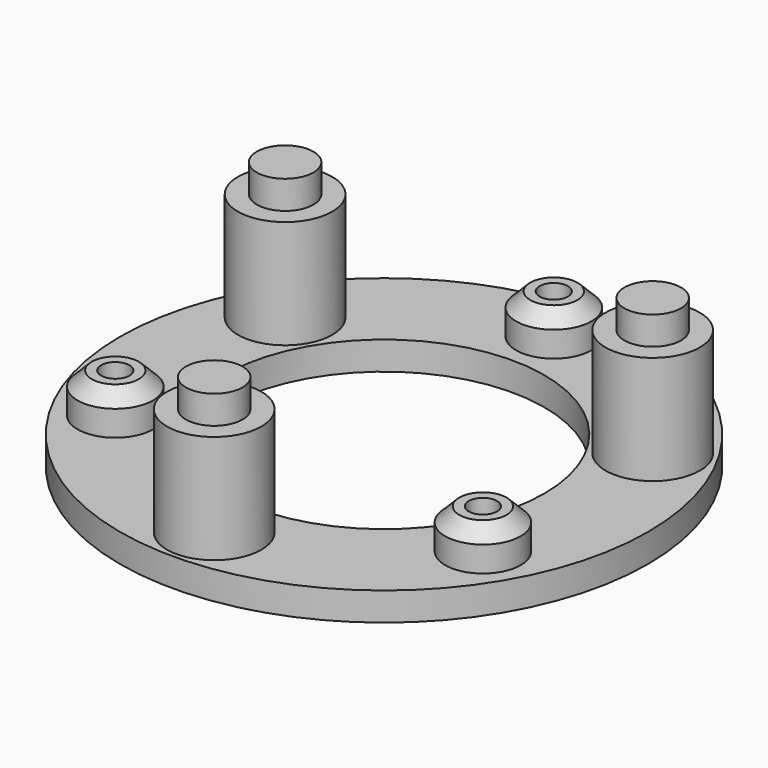
from build123d import *

# Parameters (mm, degrees)
SKETCH_R              = 28
SKETCH_R_2            = 17
PAD_DEPTH             = 3
SKETCH001_R           = 4
PAD001_DEPTH          = 4.2
SKETCH003_R           = 1.5
POCKET001_DEPTH       = 6.2
SKETCH005_R           = 5
PAD002_DEPTH          = 11.5
POLARPATTERN_COUNT    = 3
SKETCH007_R           = 3.1
POCKET_DEPTH          = 175.525843
POLARPATTERN002_COUNT = 3
CHAMFER_SIZE          = 1.5
CHAMFER001_SIZE       = 1.5
CHAMFER002_SIZE       = 1.5
SKETCH006_R           = 3
PAD003_DEPTH          = 3
POLARPATTERN001_COUNT = 3
SKETCH008_R           = 3
POCKET002_DEPTH       = 12
POLARPATTERN003_COUNT = 3
CHAMFER003_SIZE       = 1.5
CHAMFER004_SIZE       = 1.5
CHAMFER005_SIZE       = 1.5


with BuildPart() as polarpattern:
    # Sketch → Pad (new body)
    with BuildSketch(Plane.XY.offset(25)):
        Circle(SKETCH_R)
        Circle(SKETCH_R_2, mode=Mode.SUBTRACT)
    extrude(amount=PAD_DEPTH)

    # Sketch001 → Pad001 (new body)
    with BuildSketch(Plane.XY.offset(28)):
        with Locations((0, 22.5)):
            Circle(SKETCH001_R)
        with Locations((-19.485572, -11.25)):
            Circle(SKETCH001_R)
        with Locations((19.485572, -11.25)):
            Circle(SKETCH001_R)
    extrude(amount=PAD001_DEPTH)

    # Sketch003 → Pocket001 (cut)
    with BuildSketch(Plane.XY.offset(32.2)):
        with Locations((0, 22.5)):
            Circle(SKETCH003_R)
        with Locations((-19.485572, -11.25)):
            Circle(SKETCH003_R)
        with Locations((19.485572, -11.25)):
            Circle(SKETCH003_R)
    extrude(amount=-POCKET001_DEPTH, mode=Mode.SUBTRACT)

    # Sketch005 → Pad002 (new body)
    with BuildSketch(Plane.XY.offset(28)):
        with Locations((0, -22.5)):
            Circle(SKETCH005_R)
    pad002 = extrude(amount=PAD002_DEPTH)

    # PolarPattern: Pad002 ×3 about axis
    polarpattern_axis = Axis((0, 0, 28), (0, 0, 1))
    for i in range(1, POLARPATTERN_COUNT):
        add(pad002.rotate(polarpattern_axis, i * 360 / POLARPATTERN_COUNT))


with BuildPart() as obj1:
    # Pocket base: copy of PolarPattern
    add(polarpattern.part)

    # Sketch007 → Pocket (cut, through all)
    with BuildSketch(Plane.XY.offset(39.5)):
        with Locations((0, -22.5)):
            Circle(SKETCH007_R)
    pocket = extrude(amount=-POCKET_DEPTH, mode=Mode.SUBTRACT)

    # PolarPattern002: Pocket ×3 about axis
    polarpattern002_axis = Axis((0, 0, 39.5), (0, 0, 1))
    for i in range(1, POLARPATTERN002_COUNT):
        add(pocket.rotate(polarpattern002_axis, i * 360 / POLARPATTERN002_COUNT), mode=Mode.SUBTRACT)

    # Chamfer
    chamfer_edges = [obj1.edges().sort_by_distance(p)[0] for p in [
        (-23.485572, -11.25, 32.2),
    ]]
    chamfer(chamfer_edges, length=CHAMFER_SIZE)

    # Chamfer001
    chamfer001_edges = [obj1.edges().sort_by_distance(p)[0] for p in [
        (-4, 22.5, 32.2),
    ]]
    chamfer(chamfer001_edges, length=CHAMFER001_SIZE)

    # Chamfer002
    chamfer002_edges = [obj1.edges().sort_by_distance(p)[0] for p in [
        (15.485572, -11.25, 32.2),
    ]]
    chamfer(chamfer002_edges, length=CHAMFER002_SIZE)


with BuildPart() as obj2:
    # Pad003 base: copy of PolarPattern
    add(polarpattern.part)

    # Sketch006 → Pad003 (new body)
    with BuildSketch(Plane.XY.offset(39.5)):
        with Locations((0, -22.5)):
            Circle(SKETCH006_R)
    pad003 = extrude(amount=PAD003_DEPTH)

    # PolarPattern001: Pad003 ×3 about axis
    polarpattern001_axis = Axis((0, 0, 39.5), (0, 0, 1))
    for i in range(1, POLARPATTERN001_COUNT):
        add(pad003.rotate(polarpattern001_axis, i * 360 / POLARPATTERN001_COUNT))

    # Sketch008 → Pocket002 (cut)
    with BuildSketch(Plane(origin=(0, 0, 25), x_dir=(1, 0, 0), z_dir=(0, 0, -1))):
        with Locations((0, 22.5)):
            Circle(SKETCH008_R)
    pocket002 = extrude(amount=-POCKET002_DEPTH, mode=Mode.SUBTRACT)

    # PolarPattern003: Pocket002 ×3 about axis
    polarpattern003_axis = Axis((0, 0, 25), (0, 0, -1))
    for i in range(1, POLARPATTERN003_COUNT):
        add(pocket002.rotate(polarpattern003_axis, i * 360 / POLARPATTERN003_COUNT), mode=Mode.SUBTRACT)

    # Chamfer003
    chamfer003_edges = [obj2.edges().sort_by_distance(p)[0] for p in [
        (-23.485572, -11.25, 32.2),
    ]]
    chamfer(chamfer003_edges, length=CHAMFER003_SIZE)

    # Chamfer004
    chamfer004_edges = [obj2.edges().sort_by_distance(p)[0] for p in [
        (-4, 22.5, 32.2),
    ]]
    chamfer(chamfer004_edges, length=CHAMFER004_SIZE)

    # Chamfer005
    chamfer005_edges = [obj2.edges().sort_by_distance(p)[0] for p in [
        (15.485572, -11.25, 32.2),
    ]]
    chamfer(chamfer005_edges, length=CHAMFER005_SIZE)


solid = Compound([obj1.part, obj2.part])
